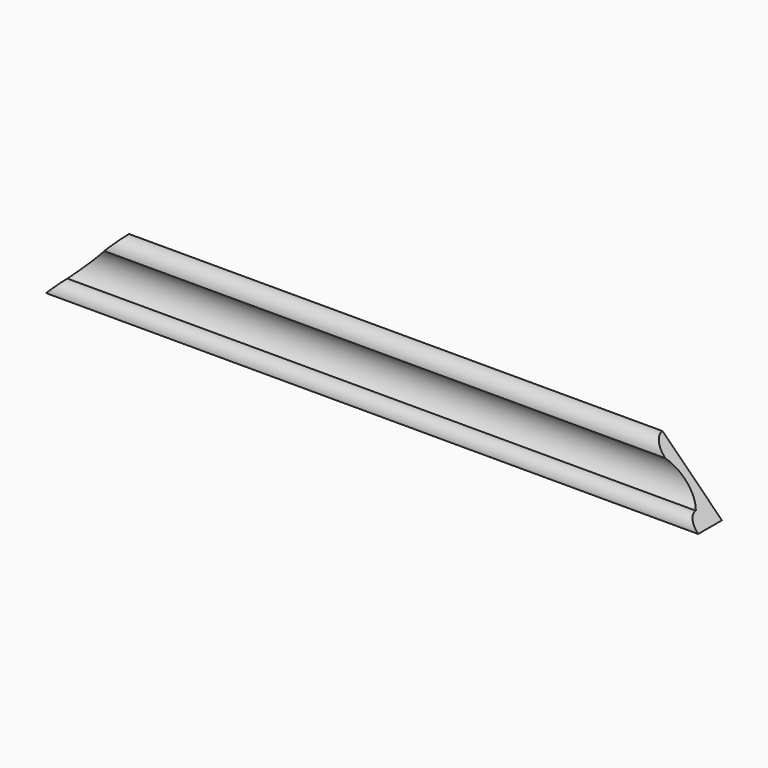
from build123d import *

# Parameters (mm, degrees)
PAD014_DEPTH = 40
PAD013_DEPTH = 40
PAD012_DEPTH = 330


with BuildPart() as body_decoration_bottom_cut_right001:
    # Sketch014 → Pad014 (new body)
    with BuildSketch(Plane(origin=(390, 0, 60), x_dir=(1, 0, 0), z_dir=(0, -1, 0))):
        Polygon((-40, 40), (0, 0), (0, 40), align=None)
    extrude(amount=PAD014_DEPTH)


with BuildPart() as body_decoration_bottom_cut_left001:
    # Sketch013 → Pad013 (new body)
    with BuildSketch(Plane(origin=(60, 0, 60), x_dir=(1, 0, 0), z_dir=(0, -1, 0))):
        Polygon((0, 0), (40, 40), (0, 40), align=None)
    extrude(amount=PAD013_DEPTH)


with BuildPart() as cut_decoration_bottom001:
    # Sketch012 → Pad012 (new body)
    with BuildSketch(Plane(origin=(60, 0, 60), x_dir=(0, 1, 0), z_dir=(1, 0, 0))):
        with BuildLine():
            Line((0, 30), (0, 0))
            Line((0, 0), (-15, 0))
            ThreePointArc((-9, 6), (-13.242641, 4.242641), (-15, 0))
            ThreePointArc((-9, 6), (-4.435882, 14.080692), (-7, 23))
            ThreePointArc((0, 30), (-4.949747, 27.949747), (-7, 23))
        make_face()
    extrude(amount=PAD012_DEPTH)

    # Cut004: cut Body, Decoration, Bottom, Cut, Left001
    add(body_decoration_bottom_cut_left001.part, mode=Mode.SUBTRACT)

    # Cut005: cut Body, Decoration, Bottom, Cut, Right001
    add(body_decoration_bottom_cut_right001.part, mode=Mode.SUBTRACT)


solid = cut_decoration_bottom001.part
